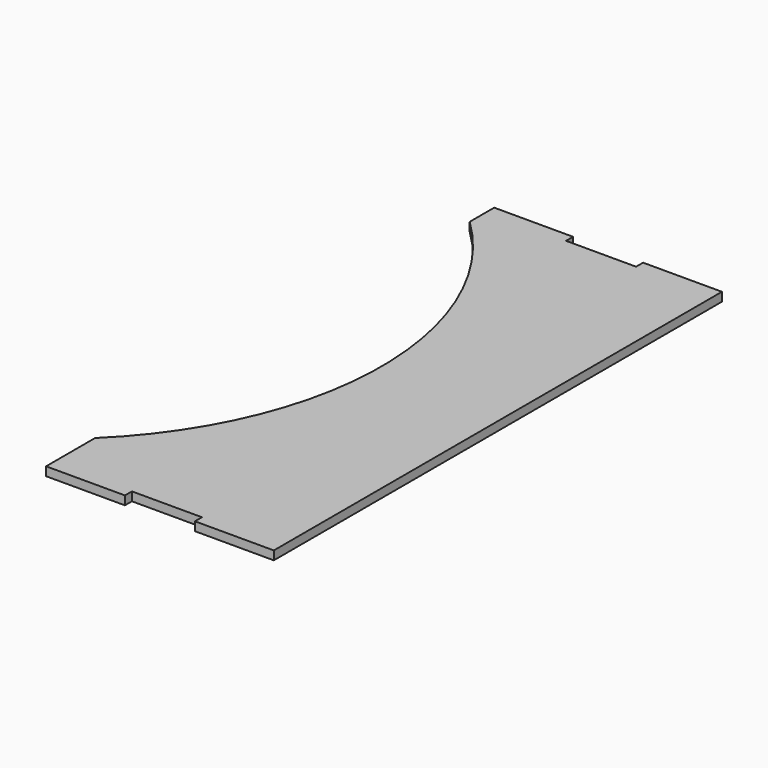
from build123d import *

# Parameters (mm, degrees)
F1_DEPTH = 3.175


with BuildPart() as f1:
    # F0 (on Top) → F1 (new body)
    with BuildSketch(Plane.XY):
        with BuildLine():
            Line((-42.959198, -79.375), (-42.959198, -101.6))
            Line((-42.959198, -101.6), (-14.659364, -101.6))
            Line((-14.659364, -101.6), (-14.353896, -101.6))
            Line((-14.353896, -101.6), (-14.353896, -98.425))
            Line((-14.353896, -98.425), (-13.463448, -98.425))
            Line((-13.463448, -98.425), (11.046104, -98.425))
            Line((11.046104, -98.425), (11.046104, -101.6))
            Line((11.046104, -101.6), (11.936552, -101.6))
            Line((11.936552, -101.6), (14.022917, -101.6))
            Line((14.022917, -101.6), (39.525854, -101.6))
            Line((39.525854, -101.6), (39.651407, -101.6))
            Line((39.651407, -101.6), (39.651407, 101.6))
            Line((39.651407, 101.6), (14.022917, 101.6))
            Line((14.022917, 101.6), (13.768917, 101.6))
            Line((13.768917, 101.6), (11.936552, 101.6))
            Line((11.936552, 101.6), (11.046104, 101.6))
            Line((11.046104, 101.6), (11.046104, 98.425))
            Line((11.046104, 98.425), (-0.763448, 98.425))
            Line((-0.763448, 98.425), (-13.463448, 98.425))
            Line((-13.463448, 98.425), (-14.353896, 98.425))
            Line((-14.353896, 98.425), (-14.353896, 101.6))
            Line((-14.353896, 101.6), (-14.913364, 101.6))
            Line((-14.913364, 101.6), (-42.959198, 101.6))
            Line((-42.959198, 101.6), (-42.959198, 90.4875))
            ThreePointArc((-42.959198, 90.4875), (-7.018182, 5.55625), (-42.959198, -79.375))
        make_face()
    extrude(amount=F1_DEPTH)


solid = f1.part
